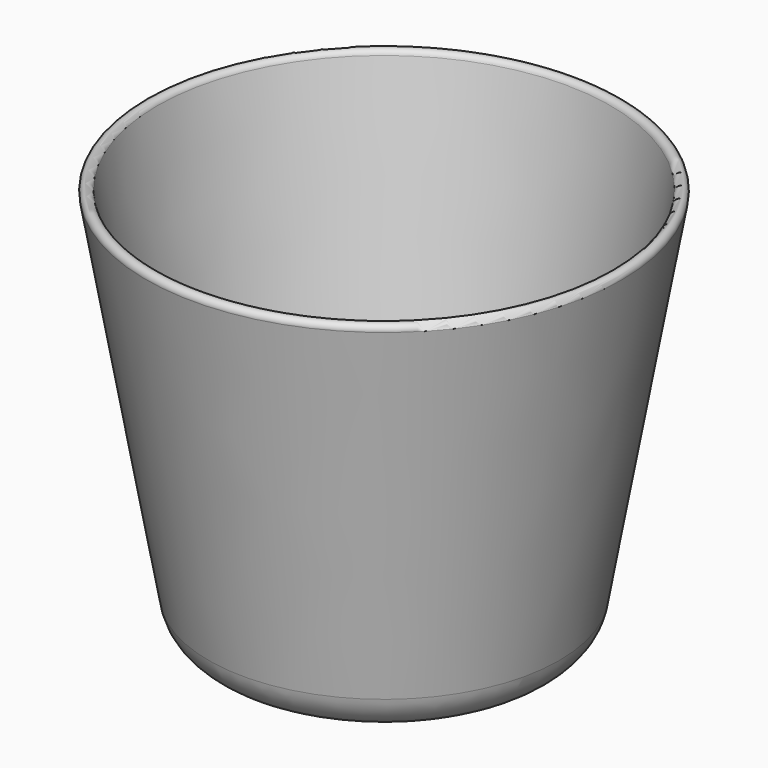
from build123d import *


with BuildPart() as f1:
    # F0 (on Front) → F1 (revolve)
    with BuildSketch(Plane.XZ):
        with BuildLine():
            Line((0, 12), (0, 0))
            Line((0, 0), (23.287203, 0))
            ThreePointArc((23.287203, 0), (28.429504, 1.871644), (31.165665, 6.610815))
            Line((31.165665, 6.610815), (42.31227, 69.826352))
            ThreePointArc((42.31227, 69.826352), (41.501111, 70.984807), (40.342655, 70.173648))
            Line((40.342655, 70.173648), (31.250737, 18.610815))
            ThreePointArc((31.250737, 18.610815), (28.514575, 13.871644), (23.372274, 12))
            Line((23.372274, 12), (0, 12))
        make_face()
    revolve(axis=Axis((0, 0, 6), (0, 0, 1)))


solid = f1.part
